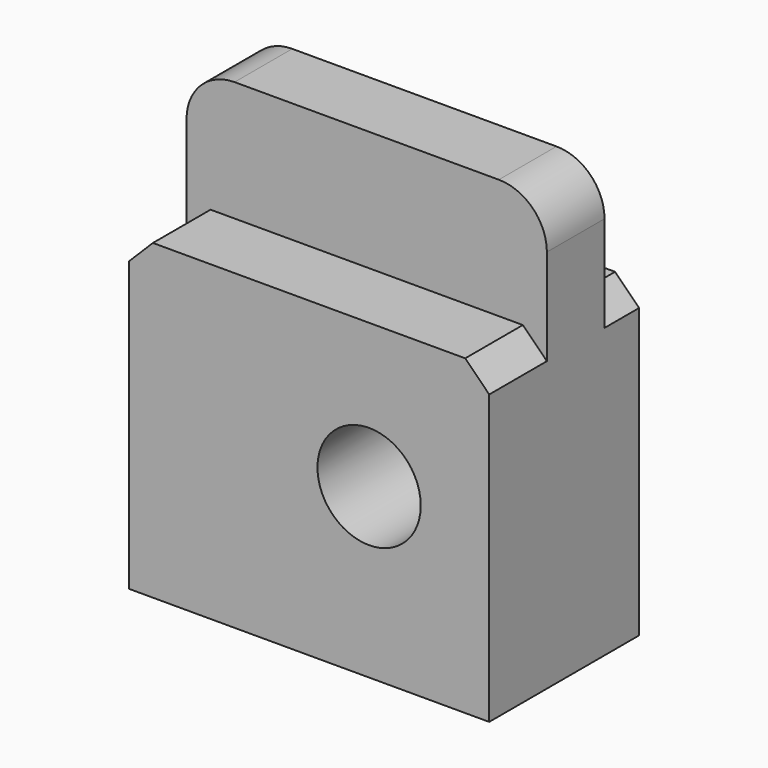
from build123d import *

# Parameters (mm, degrees)
SKETCH167_W         = 15
SKETCH167_H         = 3
PAD068_DEPTH        = 11
SKETCH168_W         = 15
SKETCH168_H         = 16
PAD069_DEPTH        = 3
FILLET078_R         = 2
SKETCH189_W         = 15
SKETCH189_H         = 11
PAD080_DEPTH        = 1.8
SKETCH169_R         = 2.15
POCKET089_DEPTH     = 7.801
CHAMFER024_SIZE     = 1
CHAMFER024_FACE13_W = 7.8
CHAMFER024_FACE13_H = 15
PAD081_DEPTH        = 2


with BuildPart() as part:
    # Sketch167 → Pad068 (new body)
    with BuildSketch(Plane.XY):
        with Locations((7.5, -1.5)):
            Rectangle(SKETCH167_W, SKETCH167_H)
    extrude(amount=-PAD068_DEPTH)

    # Sketch168 (on Face1 of Pad068) → Pad069 (join)
    with BuildSketch(Plane(origin=(0, 0, 0), x_dir=(-1, 0, 0), z_dir=(0, 1, 0))):
        with Locations((-7.5, -3)):
            Rectangle(SKETCH168_W, SKETCH168_H)
    extrude(amount=PAD069_DEPTH)

    # Fillet078
    fillet078_edges = [part.edges().sort_by_distance(p)[0] for p in [
        (0, 1.5, 5),
        (15, 1.5, 5),
    ]]
    fillet(fillet078_edges, radius=FILLET078_R)

    # Sketch189 (on Face8 of Fillet078) → Pad080 (join)
    with BuildSketch(Plane(origin=(0, 3, 0), x_dir=(-1, 0, 0), z_dir=(0, 1, 0))):
        with Locations((-7.5, -5.5)):
            Rectangle(SKETCH189_W, SKETCH189_H)
    extrude(amount=PAD080_DEPTH)

    # Sketch169 → Pocket089 (cut, through all)
    with BuildSketch(Plane.XZ.offset(3)):
        with Locations((10, -6)):
            Circle(SKETCH169_R)
    extrude(amount=-POCKET089_DEPTH, mode=Mode.SUBTRACT)

    # Chamfer024
    chamfer024_edges = [part.edges().sort_by_distance(p)[0] for p in [
        (15, -1.5, 0),
        (15, 3.9, 0),
        (0, 3.9, 0),
        (0, -1.5, 0),
    ]]
    chamfer(chamfer024_edges, length=CHAMFER024_SIZE)

    # Chamfer024 Face13 → Pad081 (add)
    with BuildSketch(Plane(origin=(7.5, 0.9, -11), x_dir=(0, -1, 0), z_dir=(0, 0, -1))):
        Rectangle(CHAMFER024_FACE13_W, CHAMFER024_FACE13_H)
    extrude(amount=PAD081_DEPTH)


with BuildPart() as part_1:
    # Body044 placement: moved
    add(part.part.moved(Location((5, -38, 56))))


solid = part_1.part
